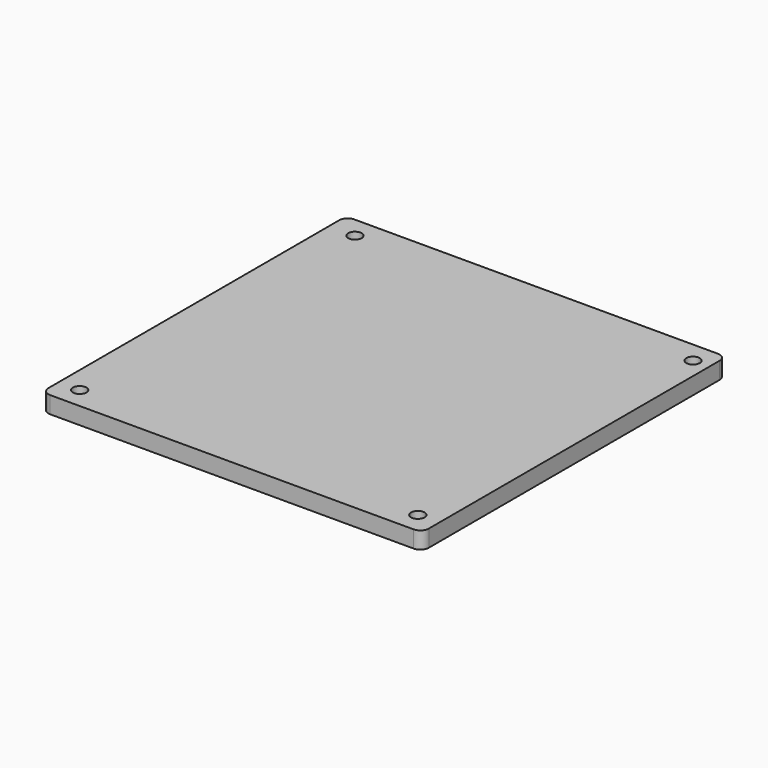
from build123d import *

# Parameters (mm, degrees)
F0_W     = 450
F0_H     = 450
F0_R     = 8
F1_DEPTH = 20
F2_R     = 10


with BuildPart() as f1:
    # F0 (on Top) → F1 (new body)
    with BuildSketch(Plane.XY):
        with Locations((225, 225)):
            Rectangle(F0_W, F0_H)
        with Locations((25, 25)):
            Circle(F0_R, mode=Mode.SUBTRACT)
        with Locations((425, 25)):
            Circle(F0_R, mode=Mode.SUBTRACT)
        with Locations((30.633244, 424.960331)):
            Circle(F0_R, mode=Mode.SUBTRACT)
        with Locations((430.633244, 424.960331)):
            Circle(F0_R, mode=Mode.SUBTRACT)
    extrude(amount=F1_DEPTH)

    # F2
    f2_edges = [f1.edges().sort_by_distance(p)[0] for p in [
        (0, 0, 10),
        (450, 0, 10),
        (450, 450, 10),
        (0, 450, 10),
    ]]
    fillet(f2_edges, radius=F2_R)


solid = f1.part
